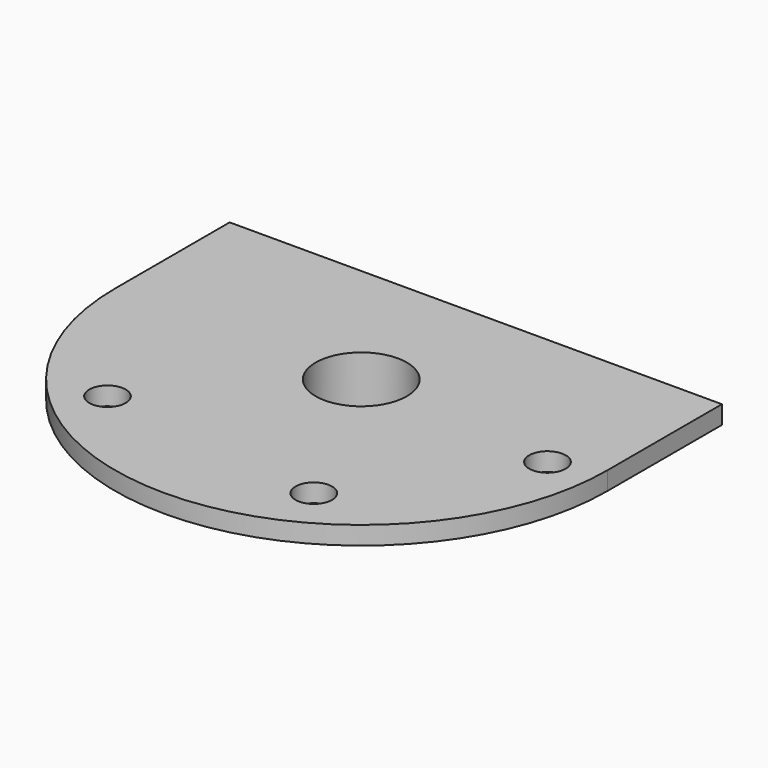
from build123d import *

# Parameters (mm, degrees)
CYLINDER003_R     = 5
CYLINDER003_DEPTH = 10
CYLINDER001_R     = 2
CYLINDER001_DEPTH = 10
CYLINDER002_R     = 2
CYLINDER002_DEPTH = 10
CYLINDER_R        = 2
CYLINDER_DEPTH    = 10
EXTRUDE005_DEPTH  = 2
SKETCH003_R       = 13.5
SKETCH003_R_2     = 12.5
SKETCH003_R_3     = 6
SKETCH003_R_4     = 5
EXTRUDE003_DEPTH  = 5


with BuildPart() as cylinder003:
    # Cylinder003 → Cylinder003 (new body)
    with BuildSketch(Plane(origin=(0, -20, 62), x_dir=(1, 0, 0), z_dir=(0, 0, -1))):
        Circle(CYLINDER003_R)
    extrude(amount=CYLINDER003_DEPTH)


with BuildPart() as cylinder001:
    # Cylinder001 → Cylinder001 (new body)
    with BuildSketch(Plane(origin=(10, -39, 55), x_dir=(1, 0, 0), z_dir=(0, 0, 1))):
        Circle(CYLINDER001_R)
    extrude(amount=CYLINDER001_DEPTH)


with BuildPart() as cylinder002:
    # Cylinder002 → Cylinder002 (new body)
    with BuildSketch(Plane(origin=(-15, -36, 54), x_dir=(1, 0, 0), z_dir=(0, 0, 1))):
        Circle(CYLINDER002_R)
    extrude(amount=CYLINDER002_DEPTH)


with BuildPart() as cylinder:
    # Cylinder → Cylinder (new body)
    with BuildSketch(Plane(origin=(22, -22, 54), x_dir=(1, 0, 0), z_dir=(0, 0, 1))):
        Circle(CYLINDER_R)
    extrude(amount=CYLINDER_DEPTH)


with BuildPart() as extrude005:
    # Sketch004 (on Face4 of Extrude003) → Extrude005 (new body)
    with BuildSketch(Plane.XY.offset(57)):
        with BuildLine():
            ThreePointArc((-26.964716, -20), (0, -46.964716), (26.964716, -20))
            Line((26.964716, -4.315231), (26.964716, -20))
            Line((-26.964716, -4.315231), (26.964716, -4.315231))
            Line((-26.964716, -20), (-26.964716, -4.315231))
        make_face()
    extrude(amount=EXTRUDE005_DEPTH)


with BuildPart() as cut003:
    # Sketch003 → Extrude003 (new body)
    with BuildSketch(Plane.XY.offset(52)):
        with Locations((0, -20)):
            Circle(SKETCH003_R)
        with Locations((0, -20)):
            Circle(SKETCH003_R_2, mode=Mode.SUBTRACT)
        with Locations((0, -20)):
            Circle(SKETCH003_R_3)
        with Locations((0, -20)):
            Circle(SKETCH003_R_4, mode=Mode.SUBTRACT)
    extrude(amount=EXTRUDE003_DEPTH)

    # Fusion: union Extrude005
    add(extrude005.part)

    # Cut: cut Cylinder
    add(cylinder.part, mode=Mode.SUBTRACT)

    # Cut001: cut Cylinder002
    add(cylinder002.part, mode=Mode.SUBTRACT)

    # Cut002: cut Cylinder001
    add(cylinder001.part, mode=Mode.SUBTRACT)

    # Cut003: cut Cylinder003
    add(cylinder003.part, mode=Mode.SUBTRACT)


solid = cut003.part
